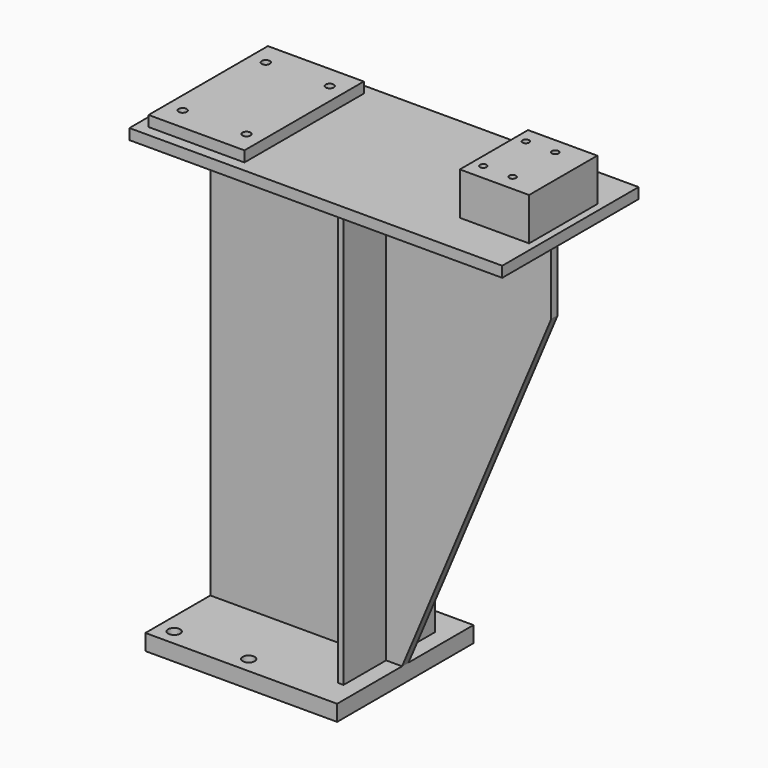
from build123d import *

# Parameters (mm, degrees)
F0_W      = 444.5
F0_H      = 203.2
F1_DEPTH  = 12.7
F3_DEPTH  = 4.826
F4_W      = 6.35
F4_H      = 511.048
F5_DEPTH  = 68.2625
F7_DEPTH  = 19.05
F9_D      = 14.2875
F9_DEPTH  = 38.1
F10_W     = 114.3
F10_H     = 177.8
F10_R     = 4.826
F11_DEPTH = 12.7
F12_W     = 82.55
F12_H     = 101.6
F12_R     = 3.96875
F13_DEPTH = 50.8


with BuildPart() as f1:
    # F0 (on Top) → F1 (new body)
    with BuildSketch(Plane.XY):
        Rectangle(F0_W, F0_H)
    extrude(amount=-F1_DEPTH)

    # F2 (on Front) → F3 (join, symmetric)
    with BuildSketch(Plane.XZ):
        Polygon((203.2, -12.7), (-203.2, -12.7), (-203.2, -523.748), (25.4, -523.748), (203.2, -101.6), align=None)
    extrude(amount=F3_DEPTH, both=True)

    # F4 (on Front) → F5 (join, symmetric)
    with BuildSketch(Plane.XZ):
        with Locations((3.175, -268.224)):
            Rectangle(F4_W, F4_H)
    extrude(amount=F5_DEPTH, both=True)

    # F6 (on face) → F7 (join)
    with BuildSketch(Plane(origin=(0, 0, -523.748), x_dir=(1, 0, 0), z_dir=(0, 0, -1))):
        Polygon((25.4, 101.6), (-203.2, 101.6), (-203.2, 4.826), (-203.2, -4.826), (-203.2, -101.6), (25.4, -101.6), (25.4, -4.826), (25.4, 4.826), align=None)
    extrude(amount=F7_DEPTH)

    # F9
    with Locations(Plane(origin=(0, 0, -542.798), x_dir=(1, 0, 0), z_dir=(0, 0, -1))):
        with Locations((-95.25, 82.55), (-184.15, 82.55), (-95.25, -82.55), (-184.15, -82.55)):
            Hole(F9_D / 2, depth=F9_DEPTH)

    # F10 (on face) → F11 (join)
    with BuildSketch(Plane.XY):
        with Locations((-152.4, 0)):
            Rectangle(F10_W, F10_H)
        with Locations((-190.5, -61.976)):
            Circle(F10_R, mode=Mode.SUBTRACT)
        with Locations((-114.3, -61.976)):
            Circle(F10_R, mode=Mode.SUBTRACT)
        with Locations((-190.5, 61.976)):
            Circle(F10_R, mode=Mode.SUBTRACT)
        with Locations((-114.3, 61.976)):
            Circle(F10_R, mode=Mode.SUBTRACT)
    extrude(amount=F11_DEPTH)

    # F12 (on face) → F13 (join)
    with BuildSketch(Plane.XY):
        with Locations((172.339, 0)):
            Rectangle(F12_W, F12_H)
        with Locations((143.764, -31.75)):
            Circle(F12_R, mode=Mode.SUBTRACT)
        with Locations((178.816, -31.75)):
            Circle(F12_R, mode=Mode.SUBTRACT)
        with Locations((143.764, 31.75)):
            Circle(F12_R, mode=Mode.SUBTRACT)
        with Locations((178.816, 31.75)):
            Circle(F12_R, mode=Mode.SUBTRACT)
    extrude(amount=F13_DEPTH)


solid = f1.part
